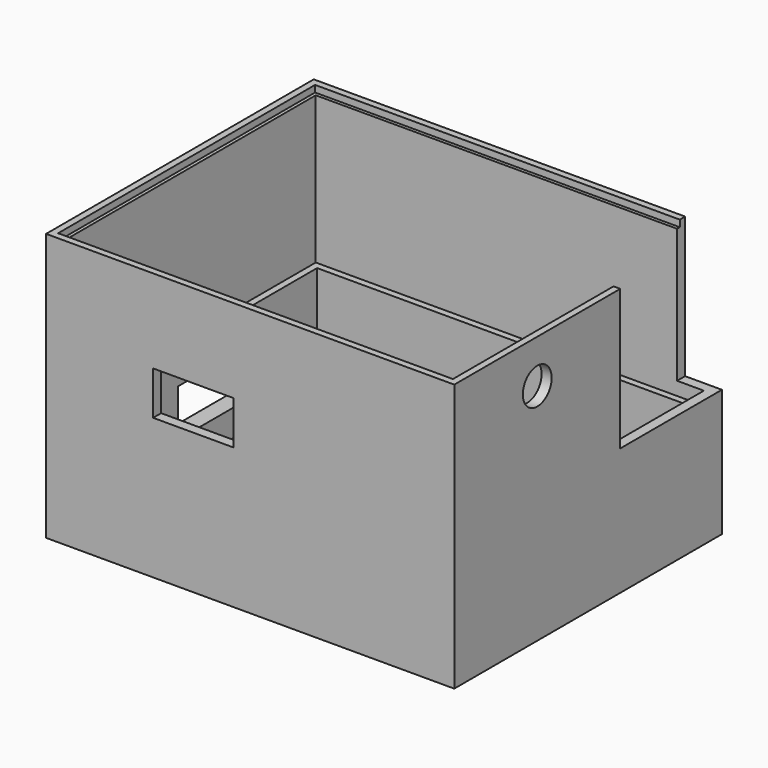
from build123d import *

# Parameters (mm, degrees)
SKETCH_W        = 61
SKETCH_H        = 50
PAD_DEPTH       = 40
SKETCH001_W     = 58
SKETCH001_H     = 47
POCKET_DEPTH    = 23
SKETCH002_W     = 56
SKETCH002_H     = 45
POCKET001_DEPTH = 16
SKETCH003_W     = 1
SKETCH003_H     = 45
PAD001_DEPTH    = 3
SKETCH004_W     = 4
SKETCH004_H     = 11
POCKET002_DEPTH = 5
SKETCH005_W     = 5.5
SKETCH005_H     = 15.5
POCKET003_DEPTH = 23
SKETCH006_W     = 59
SKETCH006_H     = 48
POCKET004_DEPTH = 1
SKETCH007_W     = 2.5
SKETCH007_H     = 3.5
POCKET005_DEPTH = 23
SKETCH009_W     = 10
SKETCH009_H     = 5
POCKET006_DEPTH = 5
PAD002_DEPTH    = 2
SKETCH011_W     = 8
SKETCH011_H     = 4.5
POCKET007_DEPTH = 5
SKETCH012_W     = 15.5
SKETCH012_H     = 6
POCKET008_DEPTH = 5
SKETCH013_W     = 9
SKETCH013_H     = 1
POCKET009_DEPTH = 3
SKETCH014_W     = 1
SKETCH014_H     = 4.5
POCKET010_DEPTH = 5
SKETCH015_W     = 9
SKETCH015_H     = 0.5
POCKET011_DEPTH = 5
SKETCH016_W     = 17.5
SKETCH016_H     = 1
POCKET012_DEPTH = 5
SKETCH017_W     = 2
SKETCH017_H     = 6
POCKET013_DEPTH = 5
SKETCH018_W     = 1
SKETCH018_H     = 11
POCKET014_DEPTH = 5
SKETCH019_W     = 12
SKETCH019_H     = 1.5
POCKET015_DEPTH = 5
SKETCH020_W     = 2
SKETCH020_H     = 5
POCKET016_DEPTH = 5
SKETCH021_R     = 2.692582
POCKET017_DEPTH = 5
SKETCH022_W     = 1
SKETCH022_H     = 45
PAD003_DEPTH    = 3
SKETCH023_W     = 41
SKETCH023_H     = 1
PAD004_DEPTH    = 3
SKETCH024_W     = 1
SKETCH024_H     = 45
POCKET018_DEPTH = 3


with BuildPart() as part:
    # Sketch → Pad (new body)
    with BuildSketch(Plane.XY):
        with Locations((30.5, 25)):
            Rectangle(SKETCH_W, SKETCH_H)
    extrude(amount=PAD_DEPTH)

    # Sketch001 (on Face6 of Pad) → Pocket (cut)
    with BuildSketch(Plane.XY.offset(40)):
        with Locations((30.5, 25)):
            Rectangle(SKETCH001_W, SKETCH001_H)
    extrude(amount=-POCKET_DEPTH, mode=Mode.SUBTRACT)

    # Sketch002 (on Face11 of Pocket) → Pocket001 (cut)
    with BuildSketch(Plane.XY.offset(17)):
        with Locations((30.5, 25)):
            Rectangle(SKETCH002_W, SKETCH002_H)
    extrude(amount=-POCKET001_DEPTH, mode=Mode.SUBTRACT)

    # Sketch003 (on Face16 of Pocket001) → Pad001 (join)
    with BuildSketch(Plane.XY.offset(1)):
        with Locations((45, 25)):
            Rectangle(SKETCH003_W, SKETCH003_H)
    extrude(amount=PAD001_DEPTH)

    # Sketch004 (on Face20 of Pad001) → Pocket002 (cut)
    with BuildSketch(Plane.XY.offset(1)):
        with Locations((5, 13)):
            Rectangle(SKETCH004_W, SKETCH004_H)
    extrude(amount=-POCKET002_DEPTH, mode=Mode.SUBTRACT)

    # Sketch005 (on Face5 of Pocket002) → Pocket003 (cut)
    with BuildSketch(Plane.XY.offset(40)):
        with Locations((58.25, 42.25)):
            Rectangle(SKETCH005_W, SKETCH005_H)
    extrude(amount=-POCKET003_DEPTH, mode=Mode.SUBTRACT)

    # Sketch006 (on Face5 of Pocket003) → Pocket004 (cut)
    with BuildSketch(Plane.XY.offset(40)):
        with Locations((30.5, 25)):
            Rectangle(SKETCH006_W, SKETCH006_H)
    extrude(amount=-POCKET004_DEPTH, mode=Mode.SUBTRACT)

    # Sketch007 (on Face5 of Pocket004) → Pocket005 (cut)
    with BuildSketch(Plane.XY.offset(40)):
        with Locations((59.75, 32.75)):
            Rectangle(SKETCH007_W, SKETCH007_H)
    extrude(amount=-POCKET005_DEPTH, mode=Mode.SUBTRACT)

    # Sketch009 (on Face1 of Pocket005) → Pocket006 (cut)
    with BuildSketch(Plane.XZ):
        with Locations((21, 23.5)):
            Rectangle(SKETCH009_W, SKETCH009_H)
    extrude(amount=-POCKET006_DEPTH, mode=Mode.SUBTRACT)

    # Sketch010 (on Face21 of Pocket006) → Pad002 (join)
    with BuildSketch(Plane.XY.offset(17)):
        Polygon((55.5, 50), (61, 50), (61, 31), (59.5, 31), (59.5, 48.5), (55.5, 48.5), align=None)
    extrude(amount=PAD002_DEPTH)

    # Sketch011 (on Face31 of Pad002) → Pocket007 (cut)
    with BuildSketch(Plane.YZ.offset(2.5)):
        with Locations((8, 9.75)):
            Rectangle(SKETCH011_W, SKETCH011_H)
    extrude(amount=-POCKET007_DEPTH, mode=Mode.SUBTRACT)

    # Sketch012 (on Face28 of Pocket007) → Pocket008 (cut)
    with BuildSketch(Plane.YZ.offset(2.5)):
        with Locations((29.25, 8)):
            Rectangle(SKETCH012_W, SKETCH012_H)
    extrude(amount=-POCKET008_DEPTH, mode=Mode.SUBTRACT)

    # Sketch013 (on Face2 of Pocket008) → Pocket009 (cut)
    with BuildSketch(Plane(origin=(0, 0, 0), x_dir=(0, -1, 0), z_dir=(-1, 0, 0))):
        with Locations((-8.5, 12.5)):
            Rectangle(SKETCH013_W, SKETCH013_H)
    extrude(amount=-POCKET009_DEPTH, mode=Mode.SUBTRACT)

    # Sketch014 (on Face2 of Pocket009) → Pocket010 (cut)
    with BuildSketch(Plane(origin=(0, 0, 0), x_dir=(0, -1, 0), z_dir=(-1, 0, 0))):
        with Locations((-12.5, 9.75)):
            Rectangle(SKETCH014_W, SKETCH014_H)
    extrude(amount=-POCKET010_DEPTH, mode=Mode.SUBTRACT)

    # Sketch015 (on Face2 of Pocket010) → Pocket011 (cut)
    with BuildSketch(Plane(origin=(0, 0, 0), x_dir=(0, -1, 0), z_dir=(-1, 0, 0))):
        with Locations((-8.5, 13.25)):
            Rectangle(SKETCH015_W, SKETCH015_H)
    extrude(amount=-POCKET011_DEPTH, mode=Mode.SUBTRACT)

    # Sketch016 (on Face2 of Pocket011) → Pocket012 (cut)
    with BuildSketch(Plane(origin=(0, 0, 0), x_dir=(0, -1, 0), z_dir=(-1, 0, 0))):
        with Locations((-30.25, 11.5)):
            Rectangle(SKETCH016_W, SKETCH016_H)
    extrude(amount=-POCKET012_DEPTH, mode=Mode.SUBTRACT)

    # Sketch017 (on Face2 of Pocket012) → Pocket013 (cut)
    with BuildSketch(Plane(origin=(0, 0, 0), x_dir=(0, -1, 0), z_dir=(-1, 0, 0))):
        with Locations((-38, 8)):
            Rectangle(SKETCH017_W, SKETCH017_H)
    extrude(amount=-POCKET013_DEPTH, mode=Mode.SUBTRACT)

    # Sketch018 (on Face3 of Pocket013) → Pocket014 (cut)
    with BuildSketch(Plane(origin=(0, 0, 0), x_dir=(1, 0, 0), z_dir=(0, 0, -1))):
        with Locations((7.5, -13)):
            Rectangle(SKETCH018_W, SKETCH018_H)
    extrude(amount=-POCKET014_DEPTH, mode=Mode.SUBTRACT)

    # Sketch019 (on Face1 of Pocket014) → Pocket015 (cut)
    with BuildSketch(Plane.XZ):
        with Locations((22, 26.75)):
            Rectangle(SKETCH019_W, SKETCH019_H)
    extrude(amount=-POCKET015_DEPTH, mode=Mode.SUBTRACT)

    # Sketch020 (on Face1 of Pocket015) → Pocket016 (cut)
    with BuildSketch(Plane.XZ):
        with Locations((27, 23.5)):
            Rectangle(SKETCH020_W, SKETCH020_H)
    extrude(amount=-POCKET016_DEPTH, mode=Mode.SUBTRACT)

    # Sketch021 (on Face5 of Pocket016) → Pocket017 (cut)
    with BuildSketch(Plane.YZ.offset(61)):
        with Locations((15.5, 33.5)):
            Circle(SKETCH021_R)
    extrude(amount=-POCKET017_DEPTH, mode=Mode.SUBTRACT)

    # Sketch022 (on Face47 of Pocket017) → Pad003 (join)
    with BuildSketch(Plane.XY.offset(1)):
        with Locations((44, 25)):
            Rectangle(SKETCH022_W, SKETCH022_H)
    extrude(amount=PAD003_DEPTH)

    # Sketch023 (on Face47 of Pad003) → Pad004 (join)
    with BuildSketch(Plane.XY.offset(1)):
        with Locations((23, 44)):
            Rectangle(SKETCH023_W, SKETCH023_H)
    extrude(amount=PAD004_DEPTH)

    # Sketch024 (on Face68 of Pad004) → Pocket018 (cut)
    with BuildSketch(Plane.XY.offset(4)):
        with Locations((45, 25)):
            Rectangle(SKETCH024_W, SKETCH024_H)
    extrude(amount=-POCKET018_DEPTH, mode=Mode.SUBTRACT)


solid = part.part
